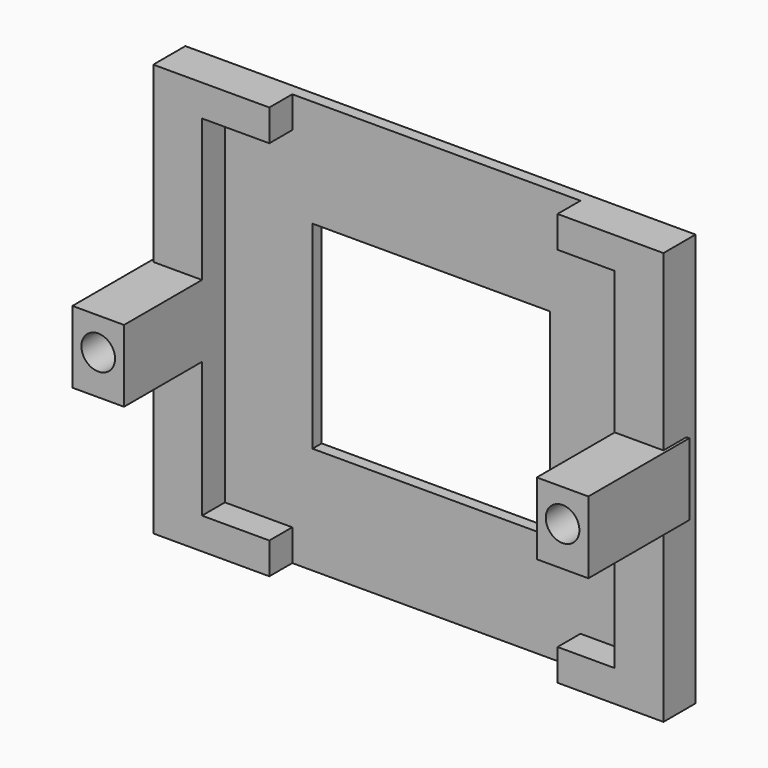
from build123d import *

# Parameters (mm, degrees)
F0_W      = 89
F0_H      = 72
F1_DEPTH  = 7
F2_W      = 72
F2_H      = 61
F3_DEPTH  = 5
F4_W      = 41.437034
F4_H      = 34.563594
F5_DEPTH  = 25
F6_W      = 50.274316
F6_H      = 5.5
F7_DEPTH  = 5
F8_W      = 9
F8_H      = 12.568578
F9_DEPTH  = 22
F10_R     = 2.9335
F11_DEPTH = 25


with BuildPart() as f1:
    # F0 (on Front) → F1 (new body)
    with BuildSketch(Plane.XZ):
        Rectangle(F0_W, F0_H)
    extrude(amount=F1_DEPTH)

    # F2 (on face) → F3 (cut)
    with BuildSketch(Plane.XZ.offset(7)):
        Rectangle(F2_W, F2_H)
    extrude(amount=-F3_DEPTH, mode=Mode.SUBTRACT)

    # F4 (on face) → F5 (cut)
    with BuildSketch(Plane.XZ.offset(2)):
        Rectangle(F4_W, F4_H)
    extrude(amount=-F5_DEPTH, mode=Mode.SUBTRACT)

    # F6 (on face) → F7 (cut)
    with BuildSketch(Plane.XZ.offset(7)):
        with Locations((0.883728, -33.25)):
            Rectangle(F6_W, F6_H)
        with Locations((0.883728, 33.25)):
            Rectangle(F6_W, F6_H)
    extrude(amount=-F7_DEPTH, mode=Mode.SUBTRACT)

    # F8 (on face) → F9 (join)
    with BuildSketch(Plane.XZ.offset(2)):
        with Locations((-40.5, -0.589152)):
            Rectangle(F8_W, F8_H)
        with Locations((40.5, -0.589152)):
            Rectangle(F8_W, F8_H)
    extrude(amount=F9_DEPTH)

    # F10 (on face) → F11 (cut)
    with BuildSketch(Plane.XZ.offset(24)):
        with Locations((-40.5, 0)):
            Circle(F10_R)
        with Locations((40.5, 0)):
            Circle(F10_R)
    extrude(amount=-F11_DEPTH, mode=Mode.SUBTRACT)


solid = f1.part
